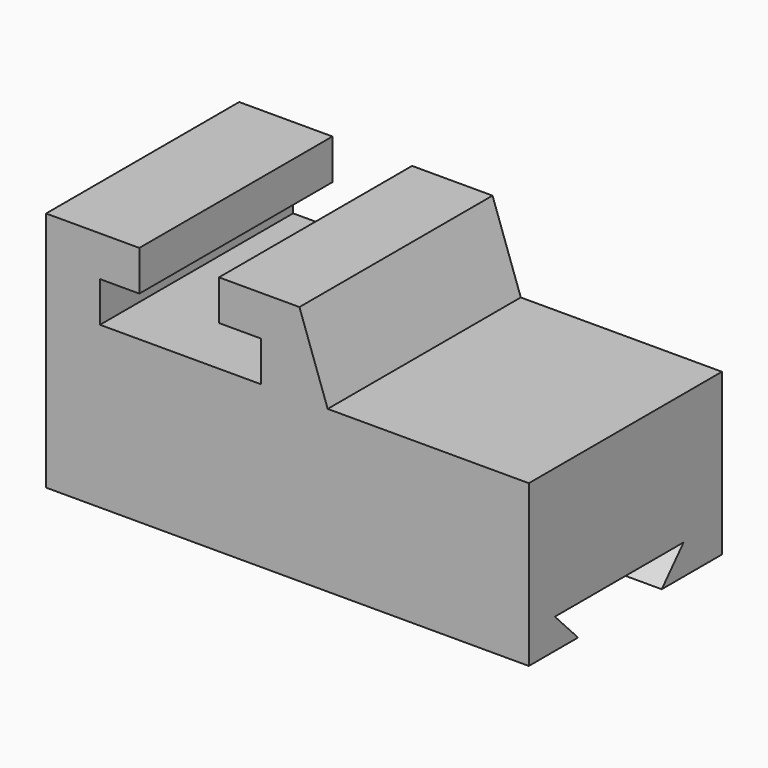
from build123d import *

# Parameters (mm, degrees)
F1_DEPTH = 76.2
F3_DEPTH = 182.626


with BuildPart() as f1:
    # F0 (on Front) → F1 (new body)
    with BuildSketch(Plane.XZ):
        Polygon((0, 76.2), (0, 0), (152.4, 0), (152.4, 50.8), (88.9, 50.8), (79.982783, 76.2), (54.582783, 76.2), (54.582783, 63.5), (67.824334, 63.5), (67.824334, 50.8), (17.024334, 50.8), (17.024334, 63.5), (29.440349, 63.5), (29.440349, 76.2), align=None)
    extrude(amount=F1_DEPTH)

    # F2 (on Right) → F3 (cut)
    with BuildSketch(Plane.YZ):
        Polygon((-56.769002, 0), (-23.748999, 0), (-15.113, 9.525), (-65.912999, 9.525), align=None)
    extrude(amount=F3_DEPTH, mode=Mode.SUBTRACT)


solid = f1.part
